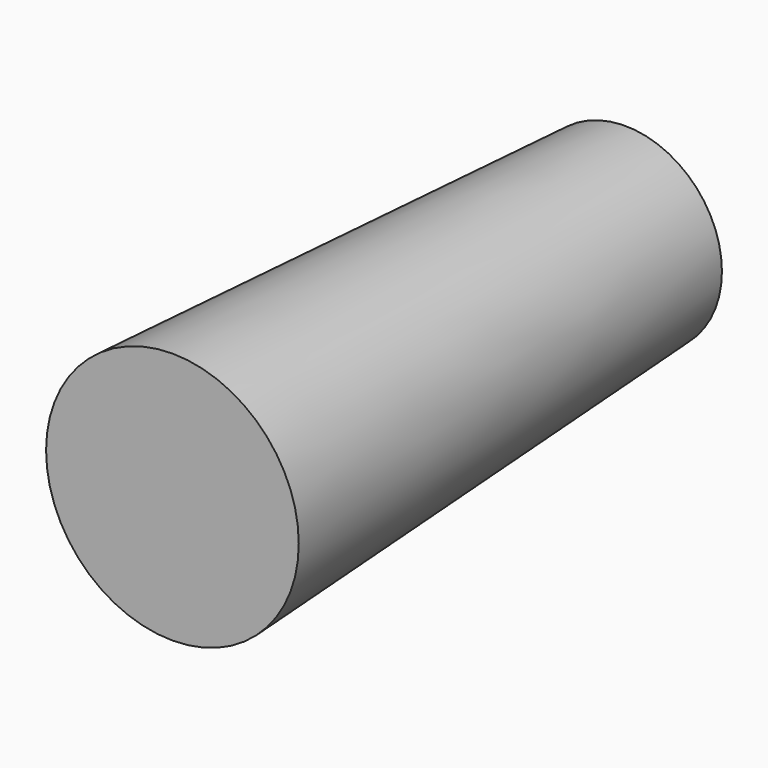
from build123d import *

# Parameters (mm, degrees)
F0_R     = 34.7051142195
F1_DEPTH = 203.2
F1_TAPER = -3


with BuildPart() as f1:
    # F0 (on Front) → F1 (new body)
    with BuildSketch(Plane.XZ):
        with Locations((-14.0025950968, 45.7808747888)):
            Circle(F0_R)
    extrude(amount=F1_DEPTH, taper=F1_TAPER)


solid = f1.part
